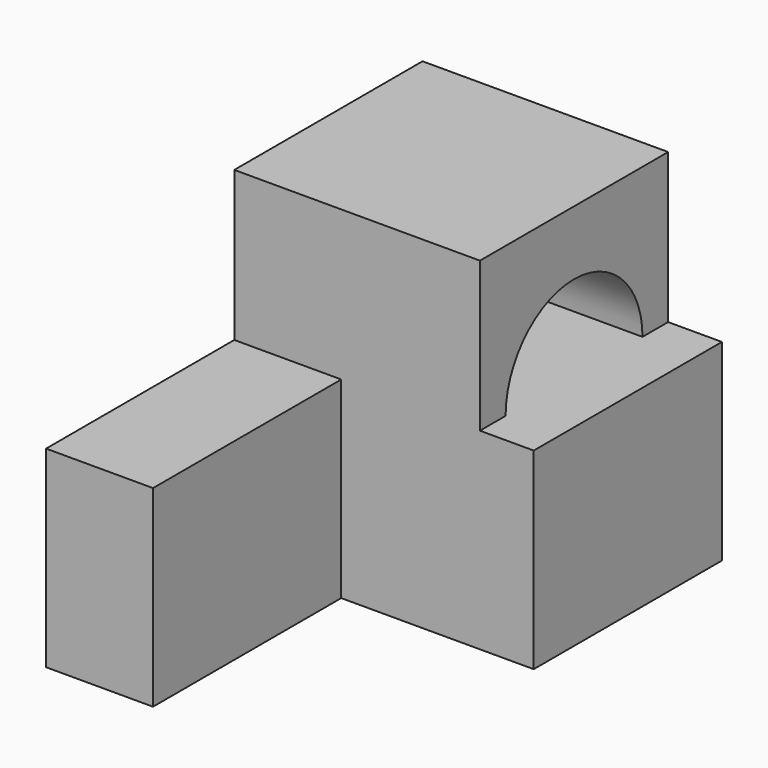
from build123d import *

# Parameters (mm, degrees)
F2_DEPTH = 900
F4_W     = 1148.5522985458
F4_H     = 1100
F5_DEPTH = 700
F8_DEPTH = 1048.5522985458


with BuildPart() as f2:
    # F1 (on offset) → F2 (new body)
    with BuildSketch(Plane.XY.offset(150)):
        Polygon((1400, 0), (0, 0), (0, -2200), (500, -2200), (500, -1100), (1400, -1100), align=None)
    extrude(amount=F2_DEPTH)

    # F4 (on offset) → F5 (join)
    with BuildSketch(Plane.XY.offset(1050)):
        with Locations((574.2761492729, -550)):
            Rectangle(F4_W, F4_H)
    extrude(amount=F5_DEPTH)

    # F7 (on face) → F8 (cut, through all)
    with BuildSketch(Plane.YZ.offset(1148.5522985458)):
        with BuildLine():
            Line((-950, 1050), (-150, 1050))
            ThreePointArc((-150, 1050), (-550, 1450), (-950, 1050))
        make_face()
    extrude(amount=-F8_DEPTH, mode=Mode.SUBTRACT)


solid = f2.part
